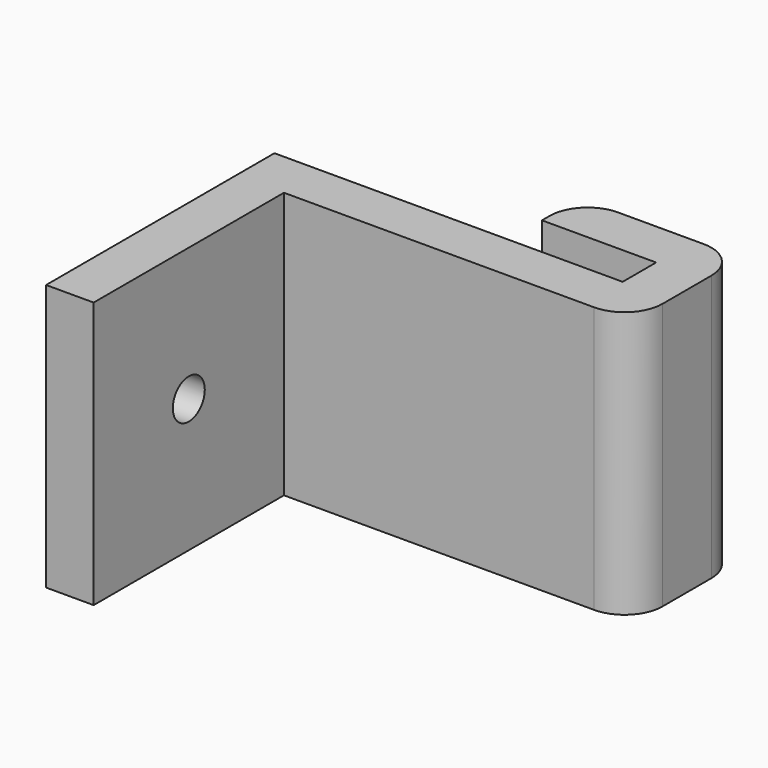
from build123d import *

# Parameters (mm, degrees)
F1_DEPTH = 35.56
F2_R     = 2.667
F3_DEPTH = 25.4
F4_R     = 5.08


with BuildPart() as f1:
    # F0 (on Top) → F1 (new body)
    with BuildSketch(Plane.XY):
        Polygon((-46.482, 0), (0, 0), (0, 18.288), (-21.59, 18.288), (-21.59, 11.938), (-6.35, 11.938), (-6.35, 6.35), (-52.832, 6.35), (-52.832, -31.75), (-46.482, -31.75), align=None)
    extrude(amount=F1_DEPTH)

    # F2 (on face) → F3 (cut)
    with BuildSketch(Plane.YZ.offset(-46.482)):
        with Locations((-15.875, 17.78)):
            Circle(F2_R)
    extrude(amount=-F3_DEPTH, mode=Mode.SUBTRACT)

    # F4
    f4_edges = [f1.edges().sort_by_distance(p)[0] for p in [
        (0, 0, 17.78),
        (0, 18.288, 17.78),
        (-21.59, 18.288, 17.78),
    ]]
    fillet(f4_edges, radius=F4_R)


solid = f1.part
